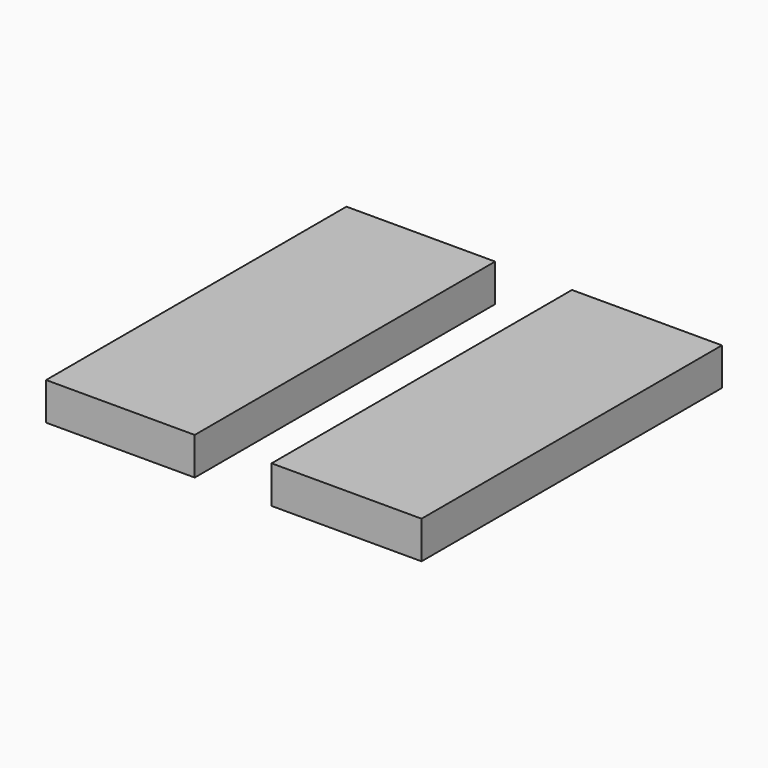
from build123d import *

# Parameters (mm, degrees)
F0_W     = 101.6
F0_H     = 101.6
F1_DEPTH = 10.16
F2_W     = 10.2240685374
F2_H     = 50.8
F2_W_2   = 10.5759631842
F3_DEPTH = 25.4
F4_SCALE = 0.25


with BuildPart() as f1:
    # F0 (on Top) → F1 (new body)
    with BuildSketch(Plane.XY):
        with Locations((-21.1954955012, 21.3920704035)):
            Rectangle(F0_W, F0_H)
    extrude(amount=F1_DEPTH)

    # F2 (on face) → F3 (cut)
    with BuildSketch(Plane.XY.offset(10.16)):
        with Locations((-16.0834612325, -4.0079295965)):
            Rectangle(F2_W, F2_H)
        with Locations((-26.4834770933, -4.0079295965)):
            Rectangle(F2_W_2, F2_H)
        with Locations((-26.4834770933, 46.7920704035)):
            Rectangle(F2_W_2, F2_H)
        with Locations((-16.0834612325, 46.7920704035)):
            Rectangle(F2_W, F2_H)
    extrude(amount=-F3_DEPTH, mode=Mode.SUBTRACT)


with BuildPart() as f1_1:
    # F4: moved
    add(f1.part.scale(F4_SCALE).moved(Location((-8.2285702229, -22.0559471974, 7.62))))


solid = f1_1.part
